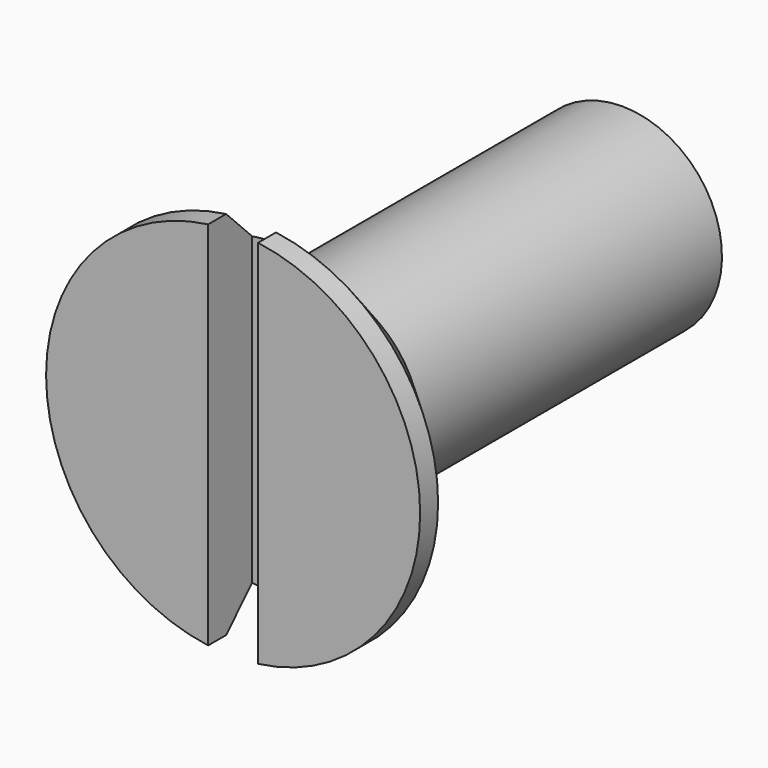
from build123d import *

# Parameters (mm, degrees)
SKETCH001_W  = 7.5
SKETCH001_H  = 1
POCKET_DEPTH = 1.1


with BuildPart() as part:
    # Sketch → Revolution (revolve)
    with BuildSketch(Plane.YZ):
        Polygon((0, 0), (0, 3.75), (0.45, 3.75), (2.2, 2), (9.751739, 2), (10, 1.57), (10, 0), align=None)
    revolve(axis=Axis((0, 0, 0), (0, 1, 0)))

    # Sketch001 → Pocket (cut)
    with BuildSketch(Plane(origin=(0, 0, 0), x_dir=(0, 0, -1), z_dir=(0, -1, 0))):
        Rectangle(SKETCH001_W, SKETCH001_H)
    extrude(amount=-POCKET_DEPTH, mode=Mode.SUBTRACT)


solid = part.part
